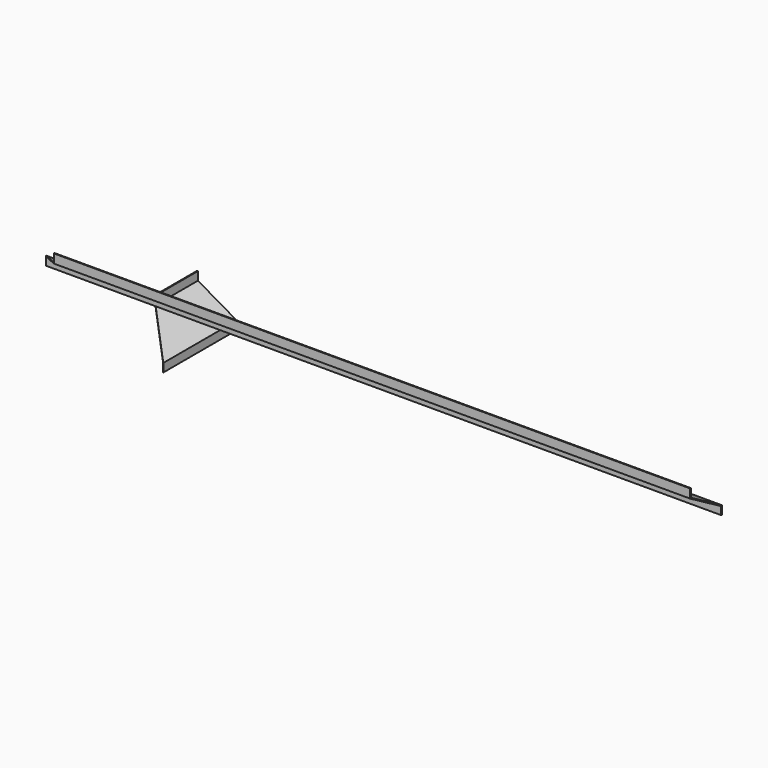
from build123d import *

# Parameters (mm, degrees)
F1_DEPTH = 272
F3_DEPTH = 116.396281
F5_DEPTH = 2000
F7_DEPTH = 476.538413
F9_DEPTH = 116.396281


with BuildPart() as f1:
    # F0 (on Front) → F1 (new body)
    with BuildSketch(Plane.XZ):
        Polygon((0, -25), (0, 0), (-2.5, 0), (-2.5, -26.443376), (112.5, -92.838657), (112.5, -116.395281), (115, -116.395281), (115, -91.395281), align=None)
    extrude(amount=F1_DEPTH)

    # F2 (on face) → F3 (cut, through all)
    with BuildSketch(Plane(origin=(0, 0, -116.395281), x_dir=(1, 0, 0), z_dir=(0, 0, -1))):
        Polygon((-2.5, 154.5), (112.5, 269.5), (112.5, 272), (-2.5, 272), align=None)
    extrude(amount=-F3_DEPTH, mode=Mode.SUBTRACT)

    # F6 (on face) → F7 (cut, through all)
    with BuildSketch(Plane(origin=(0, 0, -116.395281), x_dir=(1, 0, 0), z_dir=(0, 0, -1))):
        Polygon((112.5, 269.5), (115, 272), (112.5, 272), align=None)
    extrude(amount=-F7_DEPTH, mode=Mode.SUBTRACT)


with BuildPart() as f5:
    # F4 (on Right) → F5 (new body)
    with BuildSketch(Plane.YZ):
        Polygon((-676.780546, 335.142132), (-676.780546, 360.142132), (-679.280546, 360.142132), (-679.280546, 333.698756), (-564.280546, 267.303475), (-564.280546, 243.746851), (-561.780546, 243.746851), (-561.780546, 268.746851), align=None)
    extrude(amount=F5_DEPTH)

    # F8 (on face) → F9 (cut, through all)
    with BuildSketch(Plane(origin=(0, 0, 243.746851), x_dir=(1, 0, 0), z_dir=(0, 0, -1))):
        Polygon((0, 564.280546), (2.5, 564.280546), (117.5, 679.280546), (0, 679.280546), (0, 676.780546), align=None)
        Polygon((0, 564.280546), (0, 561.780546), (2.5, 564.280546), align=None)
    extrude(amount=-F9_DEPTH, mode=Mode.SUBTRACT)


with BuildPart() as f10_1:
    # F10: copy of F1
    add(f1.part)


solid = Compound([f1.part, f5.part])
